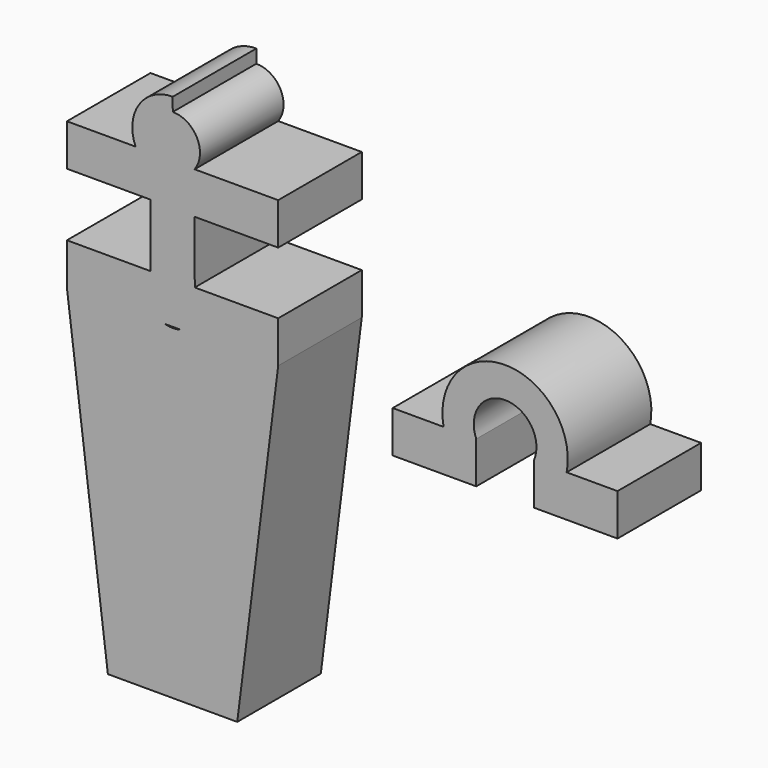
from build123d import *

# Parameters (mm, degrees)
F0_W     = 20
F0_H     = 10
F1_DEPTH = 25
F2_DEPTH = 25


with BuildPart() as f1:
    # F0 (on Front) → F1 (new body)
    with BuildSketch(Plane.XZ):
        Polygon((-47.0889342741, 25.065948941), (-47.0889342741, 35.065948941), (-50.6550110877, 35.065948941), (-67.0889342741, 35.065948941), (-67.0889342741, 25.065948941), align=None)
        with BuildLine():
            ThreePointArc((-47.0889342741, 35.065948941), (-47.505184706, 41.7751692334), (-41.7599575708, 45.2650498216))
            Line((-41.7599575708, 45.2650498216), (-41.7677386266, 48.4685200284))
            ThreePointArc((-41.7677386266, 48.4685200284), (-49.8443880857, 44.1762930308), (-50.6550110877, 35.065948941))
            Line((-50.6550110877, 35.065948941), (-47.0889342741, 35.065948941))
        make_face()
        with BuildLine():
            Line((-41.7441694692, 38.7650689958), (-41.7599575708, 45.2650498216))
            ThreePointArc((-41.7599575708, 45.2650498216), (-47.505184706, 41.7751692334), (-47.0889342741, 35.065948941))
            Line((-47.0889342741, 35.065948941), (-47.0889342741, 25.065948941))
            Line((-47.0889342741, 25.065948941), (-41.7106717768, 24.9740278866))
            Line((-41.7106717768, 24.9740278866), (-41.7441694692, 38.7650689958))
        make_face()
        with BuildLine():
            Line((-36.5289342741, 24.8854656836), (-36.5289342741, 34.8854656836))
            ThreePointArc((-36.5289342741, 34.8854656836), (-35.9396450064, 41.6903887665), (-41.7599575708, 45.2650498216))
            Line((-41.7599575708, 45.2650498216), (-41.7441694692, 38.7650689958))
            Line((-41.7441694692, 38.7650689958), (-41.7106717768, 24.9740278866))
            Line((-41.7106717768, 24.9740278866), (-36.5289342741, 24.8854656836))
        make_face()
        with Locations((-26.5289342741, 29.8854656836)):
            Rectangle(F0_W, F0_H)
        with BuildLine():
            Line((-41.6500112147, 0), (-41.6743006735, 10))
            Line((-41.6743006735, 10), (-47.0889342741, 10))
            ThreePointArc((-47.0889342741, 10), (-47.933803617, 4.1096526449), (-43.6302293689, 0))
            Line((-43.6302293689, 0), (-41.6500112147, 0))
        make_face()
        with BuildLine():
            ThreePointArc((-39.9514831888, 0), (-35.6479089408, 4.1096526449), (-36.4927782836, 10))
            Line((-36.4927782836, 10), (-41.6743006735, 10))
            Line((-41.6743006735, 10), (-41.6500112147, 0))
            Line((-41.6500112147, 0), (-39.9514831888, 0))
        make_face()
        Polygon((-41.6743006735, 10), (-41.7106717768, 24.9740278866), (-47.0889342741, 25.065948941), (-47.0889342741, 10), align=None)
        Polygon((-36.4927782836, 10), (-36.5289342741, 24.8854656836), (-41.7106717768, 24.9740278866), (-41.6743006735, 10), align=None)
        with BuildLine():
            Line((-16.5289342741, 10), (-36.4927782836, 10))
            ThreePointArc((-36.4927782836, 10), (-35.6479089408, 4.1096526449), (-39.9514831888, 0))
            Line((-39.9514831888, 0), (-26.3268932452, 0))
            Line((-26.3268932452, 0), (-16.5289342741, 10))
        make_face()
        Polygon((-26.3268932452, -78.22), (-16.5289342741, 0), (-26.3268932452, 0), align=None)
        with BuildLine():
            ThreePointArc((-43.6302293689, 0), (-47.933803617, 4.1096526449), (-47.0889342741, 10))
            Line((-47.0889342741, 10), (-67.0889342741, 10))
            Line((-67.0889342741, 10), (-57.290975303, 0))
            Line((-57.290975303, 0), (-43.6302293689, 0))
        make_face()
        Polygon((-57.290975303, 0), (-67.0889342741, 10), (-67.0889342741, 0), align=None)
        Polygon((-16.5289342741, 0), (-16.5289342741, 10), (-26.3268932452, 0), align=None)
        Polygon((-57.290975303, 0), (-67.0889342741, 0), (-57.290975303, -78.22), align=None)
        with BuildLine():
            Line((-41.6330927772, -6.9653415034), (-41.6493696255, -0.264143081))
            ThreePointArc((-41.6493696255, -0.264143081), (-42.6500113753, -0.2086523777), (-43.6302293689, 0))
            Line((-43.6302293689, 0), (-57.290975303, 0))
            Line((-57.290975303, 0), (-57.290975303, -78.22))
            Line((-57.290975303, -78.22), (-41.6330927772, -78.22))
            Line((-41.6330927772, -78.22), (-41.6330927772, -35.4483425617))
            Line((-41.6330927772, -35.4483425617), (-41.6330927772, -6.9653415034))
        make_face()
        with BuildLine():
            Line((-26.3268932452, 0), (-39.9514831888, 0))
            ThreePointArc((-39.9514831888, 0), (-40.7916594901, -0.1884244437), (-41.6493696255, -0.264143081))
            Line((-41.6493696255, -0.264143081), (-41.6330927772, -6.9653415034))
            Line((-41.6330927772, -6.9653415034), (-41.6330927772, -35.4483425617))
            Line((-41.6330927772, -35.4483425617), (-41.6330927772, -78.22))
            Line((-41.6330927772, -78.22), (-26.3268932452, -78.22))
            Line((-26.3268932452, -78.22), (-26.3268932452, 0))
        make_face()
    extrude(amount=F1_DEPTH)


with BuildPart() as f2:
    # F0 (on Front) → F2 (new body)
    with BuildSketch(Plane.XZ):
        Polygon((30.8676548302, -10), (30.8676548302, 0), (23.0468998015, 0), (10.8676548302, 0), (10.8676548302, -10), align=None)
        with BuildLine():
            ThreePointArc((30.8676548302, 0), (37.7703162591, 10.4331323187), (44.6729776879, 0))
            Line((44.6729776879, 0), (52.5027990743, 0))
            ThreePointArc((52.5027990743, 0), (37.7748494379, 17.8438529333), (23.0468998015, 0))
            Line((23.0468998015, 0), (30.8676548302, 0))
        make_face()
        Polygon((52.5027990743, 0), (44.6729776879, 0), (44.6729776879, -10), (64.6729776879, -10), (64.6729776879, 0), align=None)
    extrude(amount=F2_DEPTH)


solid = Compound([f1.part, f2.part])
